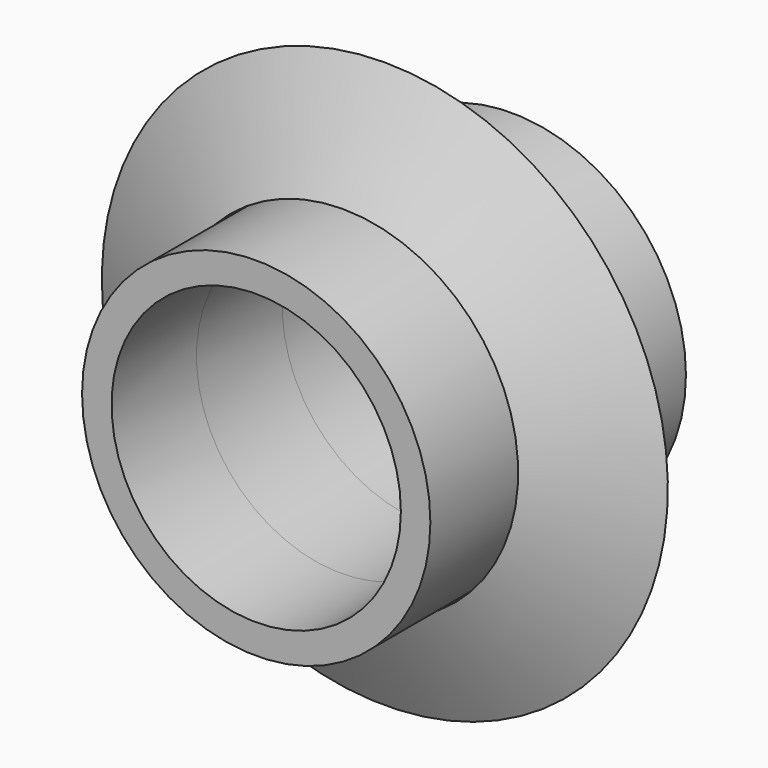
from build123d import *

# Parameters (mm, degrees)
F0_R     = 41.6817896179
F1_DEPTH = 25.654
F2_R     = 34.6231350924
F3_DEPTH = 155.448
F6_DEPTH = 25.4
F7_DEPTH = 25.4


with BuildPart() as f1:
    # F0 (on Front) → F1 (new body)
    with BuildSketch(Plane.XZ):
        Circle(F0_R)
    extrude(amount=F1_DEPTH)

    # F2 (on face) → F3 (cut)
    with BuildSketch(Plane.XZ.offset(25.654)):
        Circle(F2_R)
    extrude(amount=-F3_DEPTH, mode=Mode.SUBTRACT)

    # F6 (add): a face of the model
    f6_faces = [f1.faces().sort_by_distance(p)[0] for p in [
        (-40.5028505742, -25.654, 0),
    ]]
    extrude(f6_faces, amount=F6_DEPTH)

    # F7 (add): a face of the model
    f7_faces = [f1.faces().sort_by_distance(p)[0] for p in [
        (-40.5028505742, 0, 0),
    ]]
    extrude(f7_faces, amount=F7_DEPTH)


with BuildPart() as f5:
    # F4 (on Right) → F5 (revolve)
    with BuildSketch(Plane.YZ):
        Polygon((-25.1546557993, 41.9749431312), (0, 41.9749431312), (-12.5773278996, 67.7357390523), align=None)
    revolve(axis=Axis((0, 0, 0), (0, 1, 0)))


solid = Compound([f1.part, f5.part])
